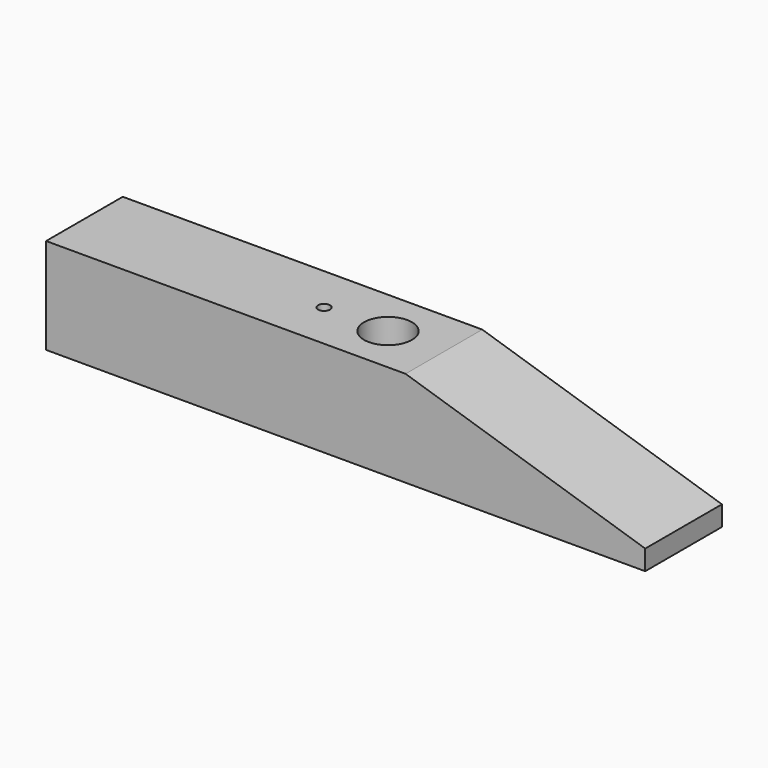
from build123d import *

# Parameters (mm, degrees)
F1_DEPTH = 12
F2_R     = 3
F3_DEPTH = 12.001
F4_R     = 0.75
F5_DEPTH = 5
F6_R     = 2.5
F7_DEPTH = 4


with BuildPart() as f1:
    # F0 (on Front) → F1 (new body)
    with BuildSketch(Plane.XZ):
        Polygon((27.483967, -0.724967), (-17.516033, -0.724967), (-17.516033, -12.724967), (57.483967, -12.724967), (57.483967, -10.224967), align=None)
    extrude(amount=F1_DEPTH)

    # F2 (on face) → F3 (cut, through all)
    with BuildSketch(Plane.XY.offset(-0.724967)):
        with Locations((20.483967, -6)):
            Circle(F2_R)
    extrude(amount=-F3_DEPTH, mode=Mode.SUBTRACT)

    # F4 (on face) → F5 (cut)
    with BuildSketch(Plane.XY.offset(-0.724967)):
        with Locations((12.483967, -6)):
            Circle(F4_R)
    extrude(amount=-F5_DEPTH, mode=Mode.SUBTRACT)

    # F6 (on face) → F7 (cut)
    with BuildSketch(Plane(origin=(0, 0, -12.724967), x_dir=(1, 0, 0), z_dir=(0, 0, -1))):
        with Locations((-9.516033, 6)):
            Circle(F6_R)
    extrude(amount=-F7_DEPTH, mode=Mode.SUBTRACT)


solid = f1.part
